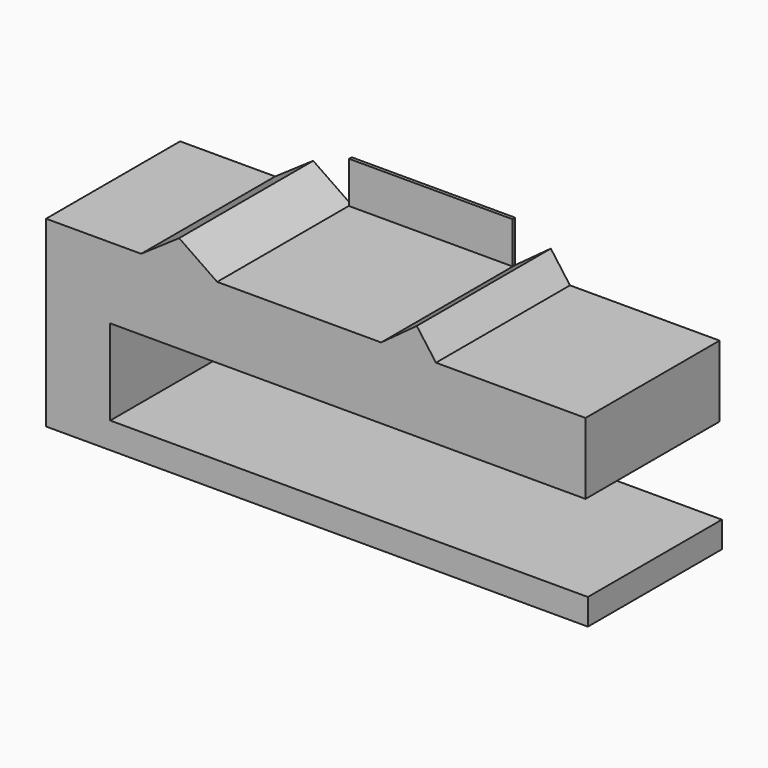
from build123d import *

# Parameters (mm, degrees)
F1_DEPTH = 25.4
F2_W     = 24.769693
F2_H     = 6.305011
F3_DEPTH = 0.508


with BuildPart() as f1:
    # F0 (on Front) → F1 (new body)
    with BuildSketch(Plane.XZ):
        Polygon((-41.072659, 27.742058), (-41.072659, 0), (41.072659, 0), (41.072659, 3.963152), (-31.344924, 3.963152), (-31.344924, 16.933465), (40.712364, 16.933465), (40.712364, 27.742058), (18.038339, 27.742058), (9.727733, 27.742058), (-15.132032, 27.742058), (-26.661199, 27.742058), align=None)
        Polygon((-20.896615, 31.705208), (-26.661199, 27.742058), (-15.132032, 27.742058), align=None)
        Polygon((15.132029, 31.705208), (9.727733, 27.742058), (18.038339, 27.742058), align=None)
    extrude(amount=F1_DEPTH)


with BuildPart() as f3:
    # F2 (on Front) → F3 (new body)
    with BuildSketch(Plane.XZ):
        with Locations((-2.661709, 30.924048)):
            Rectangle(F2_W, F2_H)
    extrude(amount=F3_DEPTH)


solid = Compound([f1.part, f3.part])
